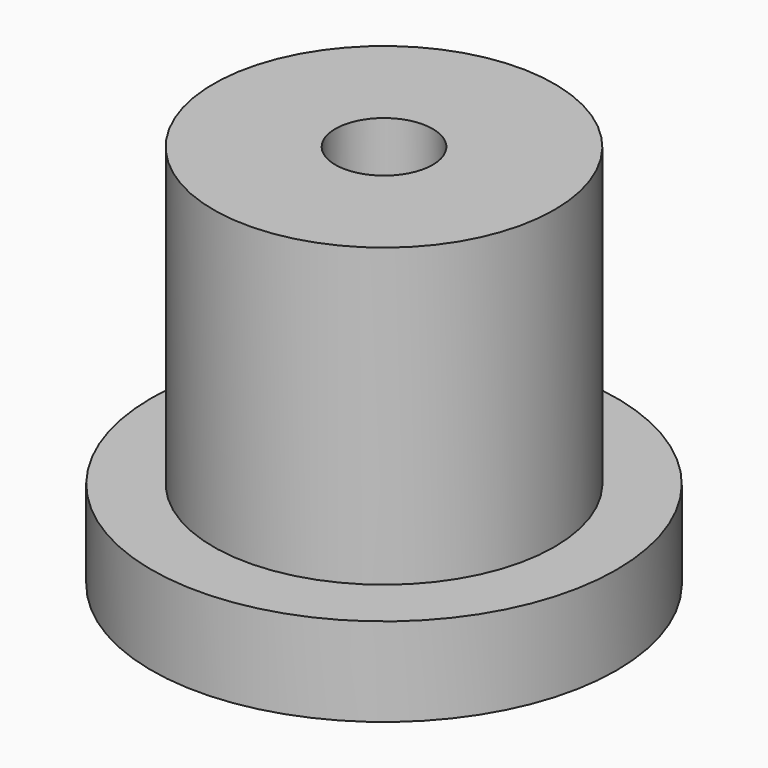
from build123d import *

# Parameters (mm, degrees)
SKETCH111_R     = 5.25
PAD063_DEPTH    = 2
SKETCH112_R     = 3.85
PAD064_DEPTH    = 6.7
SKETCH113_R     = 3.5
POCKET047_DEPTH = 7
SKETCH114_R     = 1.1
POCKET048_DEPTH = 5


with BuildPart() as part:
    # Sketch111 → Pad063 (new body)
    with BuildSketch(Plane.XY):
        Circle(SKETCH111_R)
    extrude(amount=PAD063_DEPTH)

    # Sketch112 (on Face3 of Pad063) → Pad064 (join)
    with BuildSketch(Plane.XY.offset(2)):
        Circle(SKETCH112_R)
    extrude(amount=PAD064_DEPTH)

    # Sketch113 (on Face2 of Pad064) → Pocket047 (cut)
    with BuildSketch(Plane(origin=(0, 0, 0), x_dir=(1, 0, 0), z_dir=(0, 0, -1))):
        Circle(SKETCH113_R)
    extrude(amount=-POCKET047_DEPTH, mode=Mode.SUBTRACT)

    # Sketch114 (on Face6 of Pocket047) → Pocket048 (cut)
    with BuildSketch(Plane(origin=(0, 0, 7), x_dir=(1, 0, 0), z_dir=(0, 0, -1))):
        Circle(SKETCH114_R)
    extrude(amount=-POCKET048_DEPTH, mode=Mode.SUBTRACT)


with BuildPart() as part_1:
    # Body022 placement: moved
    add(part.part.moved(Location((82.75, 45.2, -5))))


solid = part_1.part
